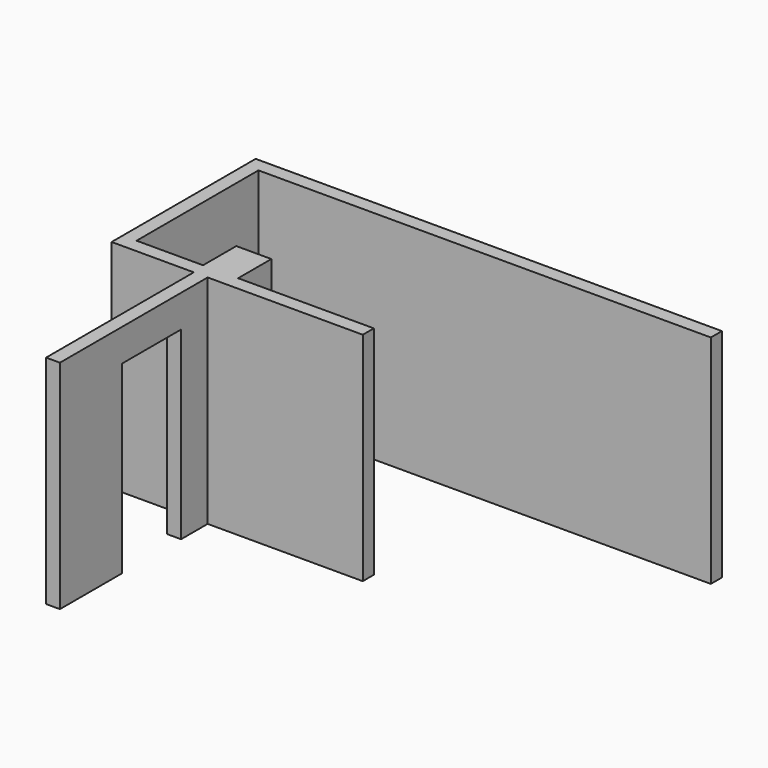
from build123d import *

# Parameters (mm, degrees)
F1_DEPTH = 235
F2_W     = 80
F2_H     = 200
F3_DEPTH = 104.001


with BuildPart() as f1:
    # F0 (on Top) → F1 (new body)
    with BuildSketch(Plane.XY):
        Polygon((-117.413361, 188.052049), (372.586639, 188.052049), (372.586639, 203.052049), (-132.413361, 203.052049), (-132.413361, 8.052049), (-43.413361, 8.052049), (-43.413361, -191.947951), (-28.413361, -191.947951), (-28.413361, 8.052049), (139.586639, 8.052049), (139.586639, 23.052049), (-7.413361, 23.052049), (-7.413361, 68.052049), (-45.413361, 68.052049), (-45.413361, 23.052049), (-117.413361, 23.052049), align=None)
    extrude(amount=F1_DEPTH)

    # F2 (on face) → F3 (cut, through all)
    with BuildSketch(Plane.YZ.offset(-28.413361)):
        with Locations((-67.947951, 100)):
            Rectangle(F2_W, F2_H)
    extrude(amount=-F3_DEPTH, mode=Mode.SUBTRACT)


solid = f1.part
